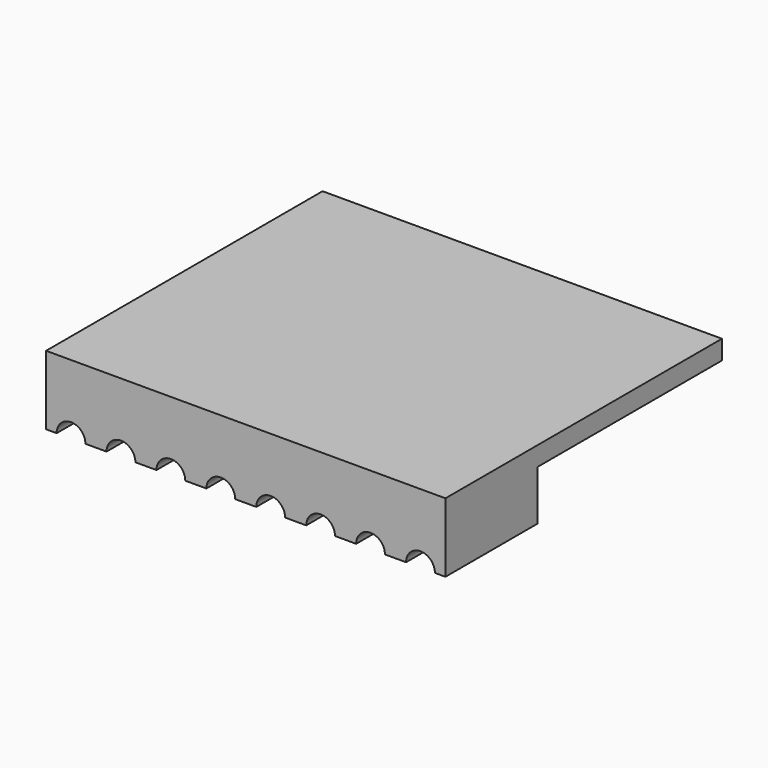
from build123d import *

# Parameters (mm, degrees)
BOX019_W          = 30
BOX019_H          = 20
BOX019_DEPTH      = 9.2
BOX005_W          = 26
BOX005_H          = 12
BOX005_DEPTH      = 5.2
CYLINDER003_R     = 0.75
CYLINDER003_DEPTH = 7
ARRAY003_X_COUNT  = 8
ARRAY003_X_PITCH  = 2.6
ARRAY003_Y_COUNT  = 2
ARRAY003_Y_PITCH  = 1
BOX002_W          = 20.8
BOX002_H          = 18
BOX002_DEPTH      = 7.2


with BuildPart() as obj1:
    # Box019 → Box019 (new body)
    with BuildSketch(Plane(origin=(-1, -2, -5.6), x_dir=(1, 0, 0), z_dir=(0, 0, 1))):
        with Locations((15, 10)):
            Rectangle(BOX019_W, BOX019_H)
    extrude(amount=BOX019_DEPTH)


with BuildPart() as cube_10_base002:
    # Box005 → Box005 (new body)
    with BuildSketch(Plane(origin=(0, 6, 1), x_dir=(1, 0, 0), z_dir=(0, 0, 1))):
        with Locations((13, 6)):
            Rectangle(BOX005_W, BOX005_H)
    extrude(amount=BOX005_DEPTH)


with BuildPart() as array003:
    # Cylinder003 → Cylinder003 (new body)
    with BuildSketch(Plane(origin=(1.3, -1, 3.6), x_dir=(1, 0, 0), z_dir=(0, 1, 0))):
        Circle(CYLINDER003_R)
    extrude(amount=CYLINDER003_DEPTH)

    # Array003 X: Array003 ×8


with BuildPart() as array003_1:
    add(array003.part)
    with Locations(*[(i * ARRAY003_X_PITCH, 0, 0) for i in range(1, ARRAY003_X_COUNT)]):
        add(array003.part)

    # Array003 Y: Array003 ×2


with BuildPart() as array003_2:
    add(array003_1.part)
    with Locations(*[(0, i * ARRAY003_Y_PITCH, 0) for i in range(1, ARRAY003_Y_COUNT)]):
        add(array003_1.part)


with BuildPart() as obj2:
    # Box002 → Box002 (new body)
    with BuildSketch(Plane.XY):
        with Locations((10.4, 9)):
            Rectangle(BOX002_W, BOX002_H)
    extrude(amount=BOX002_DEPTH)

    # Cut003: cut Array003
    add(array003_2.part, mode=Mode.SUBTRACT)

    # Cut005: cut cube_10_base002
    add(cube_10_base002.part, mode=Mode.SUBTRACT)

    # Cut020: cut obj1
    add(obj1.part, mode=Mode.SUBTRACT)


solid = obj2.part
